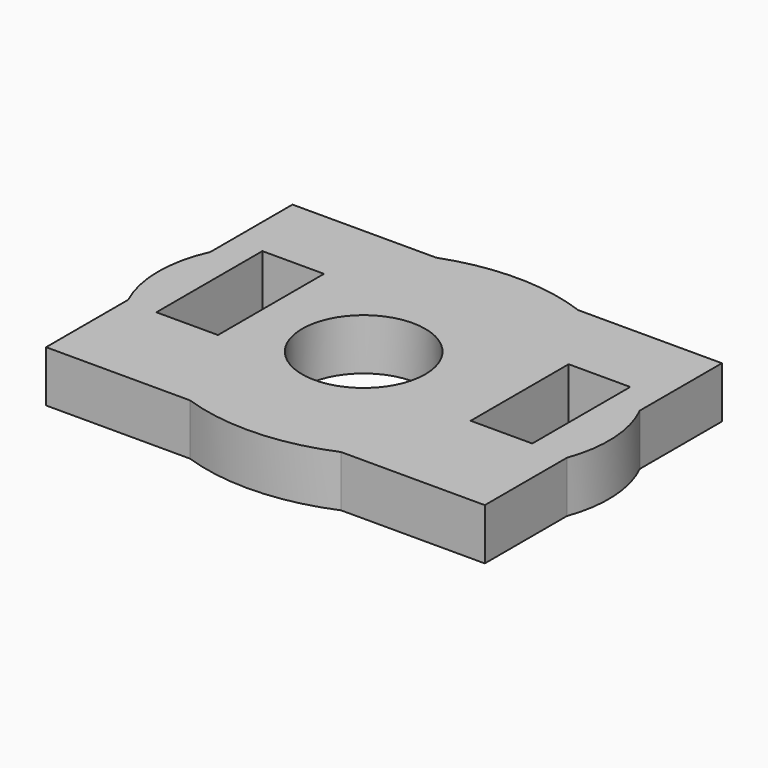
from build123d import *

# Parameters (mm, degrees)
F0_R     = 30
F0_W     = 30
F0_H     = 64.544402
F0_H_2   = 59.647806
F1_DEPTH = 25


with BuildPart() as f1:
    # F0 (on Top) → F1 (new body)
    with BuildSketch(Plane.XY):
        with BuildLine():
            Line((0.216425, 37.071633), (-69.783575, 37.071633))
            Line((-69.783575, 37.071633), (-69.783575, -12.928367))
            ThreePointArc((-69.783575, -12.928367), (-75.201119, -38.082268), (-69.584275, -63.192417))
            Line((-69.584275, -63.192417), (-69.584275, -113.192417))
            Line((-69.584275, -113.192417), (0.415725, -113.192417))
            ThreePointArc((0.415725, -113.192417), (36.440781, -118.493668), (71.975624, -110.544906))
            Line((71.975624, -110.544906), (141.975624, -110.544906))
            Line((141.975624, -110.544906), (141.975624, -60.544906))
            ThreePointArc((141.975624, -60.544906), (145.605548, -36.468209), (139.369183, -12.931612))
            Line((139.369183, -12.931612), (139.369183, 37.068388))
            Line((139.369183, 37.068388), (69.369183, 37.068388))
            ThreePointArc((69.369183, 37.068388), (34.793093, 43.237852), (0.216425, 37.071633))
        make_face()
        with Locations((26.989533, -40.551092)):
            Circle(F0_R, mode=Mode.SUBTRACT)
        with Locations((-39.783575, -32.272201)):
            Rectangle(F0_W, F0_H, mode=Mode.SUBTRACT)
        with Locations((109.369183, -29.823903)):
            Rectangle(F0_W, F0_H_2, mode=Mode.SUBTRACT)
    extrude(amount=F1_DEPTH)


solid = f1.part
